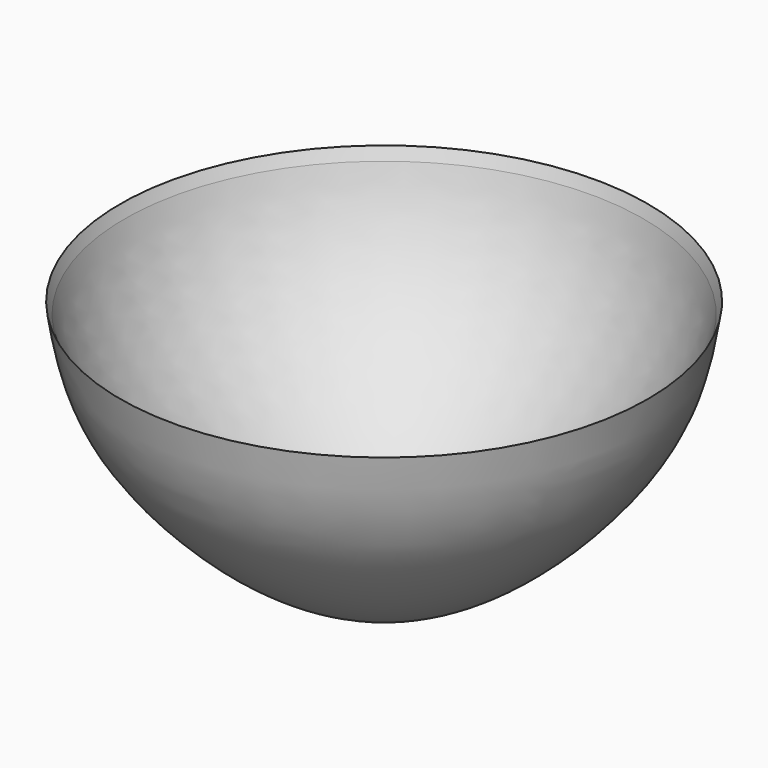
from build123d import *


with BuildPart() as f1:
    # F0 (on Front) → F1 (revolve)
    with BuildSketch(Plane.XZ):
        with BuildLine():
            Line((67.5683833732, 62.3419195861), (66.4059147239, 59.3873821199))
            add(Edge.make_bspline(
                [(0, -0.7158760563), (2.6814772844, -1.3649568672), (12.2673390737, -2.016221546), (50.7955266844, 24.2916557671), (63.4198657338, 46.8438520801), (66.4059147239, 59.3873821199)],
                knots=[0, 0, 0, 0, 0.2001778948, 0.6125150148, 1, 1, 1, 1], degree=3))
            Line((0, -0.7158760563), (0, -3.1979404727))
            Line((0, -3.1979404727), (8.1537544596, -3.1979404727))
            add(Edge.make_bspline(
                [(67.5683833732, 62.3419195861), (65.481564573, 48.5172867775), (59.308278238, 29.3080753365), (26.7939561301, 0), (8.1537544596, -3.1979404727)],
                knots=[0, 0, 0, 0, 0.438640421, 1, 1, 1, 1], degree=3))
        make_face()
    revolve(axis=Axis((0, 0, -1.9569082645), (0, 0, 1)))


solid = f1.part
